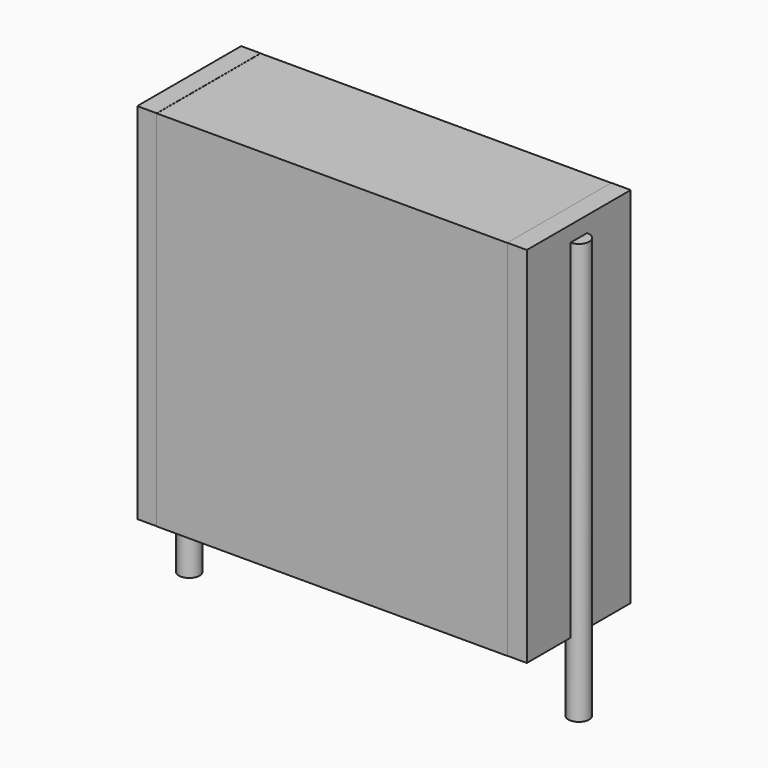
from build123d import *

# Parameters (mm, degrees)
SKETCH_W          = 13.5
SKETCH_H          = 5
PAD_DEPTH         = 14
SKETCH001_R       = 0.4
PAD001_DEPTH      = 13
PAD001_DEPTH_BACK = 3.2
SKETCH002_W       = 0.75
SKETCH002_H       = 5
PAD002_DEPTH      = 14


with BuildPart() as pad:
    # Sketch → Pad (new body)
    with BuildSketch(Plane.XY.offset(0.1)):
        with Locations((7.5, 0)):
            Rectangle(SKETCH_W, SKETCH_H)
    extrude(amount=PAD_DEPTH)


with BuildPart() as pad001:
    # Sketch001 → Pad001 (new body, two sides)
    with BuildSketch(Plane.XY.offset(0.5)) as pad001_sk:
        Circle(SKETCH001_R)
        with Locations((15, 0)):
            Circle(SKETCH001_R)
    extrude(amount=PAD001_DEPTH)
    extrude(pad001_sk.sketch, amount=-PAD001_DEPTH_BACK)


with BuildPart() as pad002:
    # Sketch002 → Pad002 (new body)
    with BuildSketch(Plane.XY.offset(0.105)):
        with Locations((0.375, 0)):
            Rectangle(SKETCH002_W, SKETCH002_H)
        with Locations((14.625, 0)):
            Rectangle(SKETCH002_W, SKETCH002_H)
    extrude(amount=PAD002_DEPTH)


solid = Compound([pad.part, pad001.part, pad002.part])
